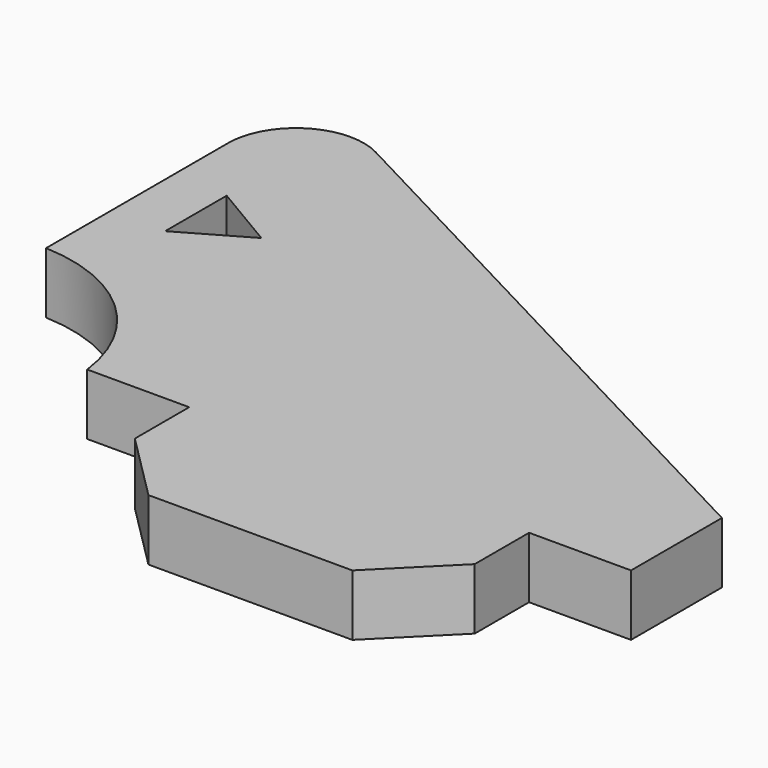
from build123d import *

# Parameters (mm, degrees)
F1_DEPTH = 1.8


with BuildPart() as f1:
    # F0 (on Top) → F1 (new body)
    with BuildSketch(Plane.XY):
        with BuildLine():
            ThreePointArc((-18.718661, 12.857284), (-15.707568, 11.619379), (-14.206161, 8.730631))
            Line((-14.206161, 8.730631), (-11.206161, 8.730631))
            Line((-11.206161, 8.730631), (-11.206161, 6.730631))
            Line((-11.206161, 6.730631), (-9.206161, 4.730631))
            Line((-9.206161, 4.730631), (-3.206161, 4.730631))
            Line((-3.206161, 4.730631), (-1.206161, 6.730631))
            Line((-1.206161, 6.730631), (-1.206161, 8.730631))
            Line((-1.206161, 8.730631), (1.793839, 8.730631))
            Line((1.793839, 8.730631), (1.793839, 12.073743))
            Line((1.793839, 12.073743), (-15.788014, 21.316626))
            ThreePointArc((-15.788014, 21.316626), (-17.752756, 21.258258), (-18.718661, 19.546345))
            Line((-18.718661, 19.546345), (-18.718661, 12.857284))
        make_face()
        Polygon((-17.109654, 15.226299), (-17.109654, 17.48827), (-15.168789, 16.339037), align=None, mode=Mode.SUBTRACT)
    extrude(amount=F1_DEPTH)


solid = f1.part
